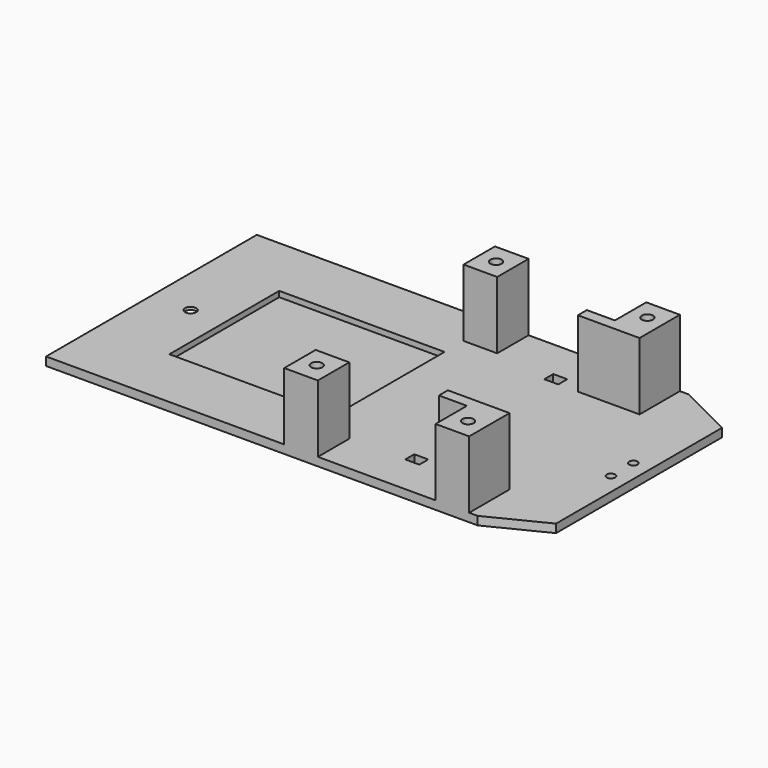
from build123d import *

# Parameters (mm, degrees)
PAD_DEPTH       = 3
SKETCH001_W     = 59
SKETCH001_H     = 49
POCKET_DEPTH    = 2
SKETCH002_W     = 12
SKETCH002_H     = 14
PAD001_DEPTH    = 24
SKETCH003_R     = 2
SKETCH003_R_2   = 1.5
SKETCH003_W     = 5
SKETCH003_H     = 4
POCKET001_DEPTH = 3.001
SKETCH004_R     = 10
POCKET002_DEPTH = 2
SKETCH005_R     = 2
POCKET003_DEPTH = 18


with BuildPart() as part:
    # Sketch → Pad (new body)
    with BuildSketch(Plane(origin=(0, 150, 0), x_dir=(1, 0, 0), z_dir=(0, 0, 1))):
        Polygon((-26, 47), (-26, -47), (128, -47), (148, -37), (148, 37), (128, 47), align=None)
    extrude(amount=PAD_DEPTH)

    # Sketch001 → Pocket (cut)
    with BuildSketch(Plane(origin=(0, 150, 3), x_dir=(1, 0, 0), z_dir=(0, 0, 1))):
        with Locations((29.5, 0)):
            Rectangle(SKETCH001_W, SKETCH001_H)
    extrude(amount=-POCKET_DEPTH, mode=Mode.SUBTRACT)

    # Sketch002 → Pad001 (new body)
    with BuildSketch(Plane(origin=(0, 150, 3), x_dir=(1, 0, 0), z_dir=(0, 0, 1))):
        with Locations((65, 40)):
            Rectangle(SKETCH002_W, SKETCH002_H)
        with Locations((65, -40)):
            Rectangle(SKETCH002_W, SKETCH002_H)
        Polygon((103, 29), (125, 29), (125, 47), (113, 47), (113, 33), (103, 33), align=None)
        Polygon((103, -29), (125, -29), (125, -47), (113, -47), (113, -33), (103, -33), align=None)
    extrude(amount=PAD001_DEPTH)

    # Sketch003 → Pocket001 (cut, through all)
    with BuildSketch(Plane(origin=(0, 150, 3), x_dir=(1, 0, 0), z_dir=(0, 0, 1))):
        with Locations((-12, 0)):
            Circle(SKETCH003_R)
        with Locations((142, 5)):
            Circle(SKETCH003_R_2)
        with Locations((142, -5)):
            Circle(SKETCH003_R_2)
        with Locations((93.5, 31)):
            Rectangle(SKETCH003_W, SKETCH003_H)
        with Locations((93.5, -31)):
            Rectangle(SKETCH003_W, SKETCH003_H)
    extrude(amount=-POCKET001_DEPTH, mode=Mode.SUBTRACT)

    # Sketch004 → Pocket002 (cut)
    with BuildSketch(Plane(origin=(0, 150, 0), x_dir=(1, 0, 0), z_dir=(0, 0, -1))):
        with Locations((-12, 0)):
            Circle(SKETCH004_R)
    extrude(amount=-POCKET002_DEPTH, mode=Mode.SUBTRACT)

    # Sketch005 → Pocket003 (cut)
    with BuildSketch(Plane(origin=(0, 150, 27), x_dir=(1, 0, 0), z_dir=(0, 0, 1))):
        with Locations((119, 40)):
            Circle(SKETCH005_R)
        with Locations((65, 40)):
            Circle(SKETCH005_R)
        with Locations((119, -40)):
            Circle(SKETCH005_R)
        with Locations((65, -40)):
            Circle(SKETCH005_R)
    extrude(amount=-POCKET003_DEPTH, mode=Mode.SUBTRACT)


solid = part.part
